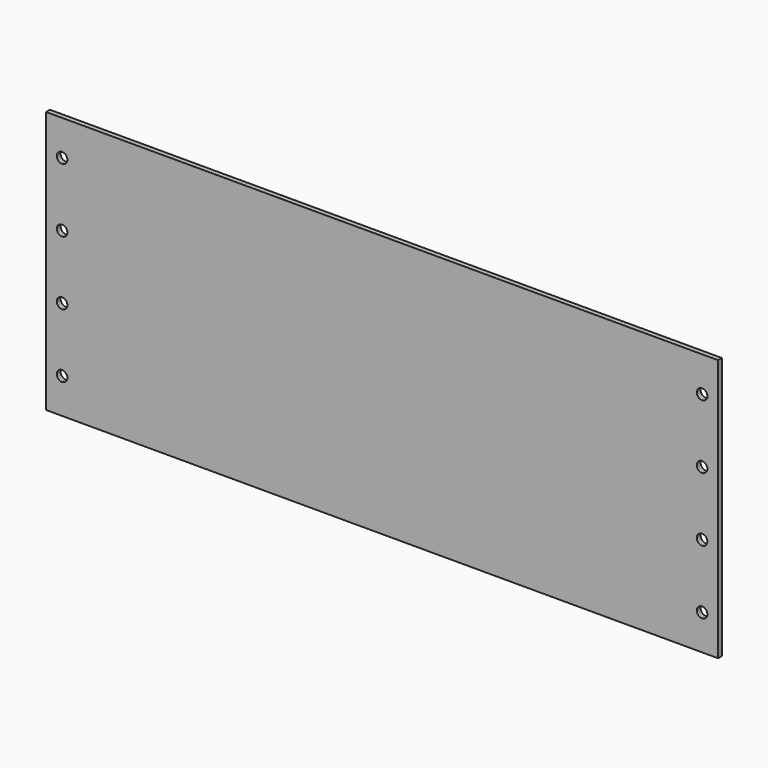
from build123d import *

# Parameters (mm, degrees)
SKETCH_W       = 210
SKETCH_H       = 82
SKETCH_R       = 1.65
PAD_DEPTH      = 0.75
PAD_DEPTH_BACK = 0.75


with BuildPart() as part:
    # Sketch → Pad (new body, two sides)
    with BuildSketch(Plane.XZ) as pad_sk:
        Rectangle(SKETCH_W, SKETCH_H)
        with Locations((100, 30)):
            Circle(SKETCH_R, mode=Mode.SUBTRACT)
        with Locations((100, 10)):
            Circle(SKETCH_R, mode=Mode.SUBTRACT)
        with Locations((100, -30)):
            Circle(SKETCH_R, mode=Mode.SUBTRACT)
        with Locations((100, -10)):
            Circle(SKETCH_R, mode=Mode.SUBTRACT)
        with Locations((-100, 30)):
            Circle(SKETCH_R, mode=Mode.SUBTRACT)
        with Locations((-100, 10)):
            Circle(SKETCH_R, mode=Mode.SUBTRACT)
        with Locations((-100, -30)):
            Circle(SKETCH_R, mode=Mode.SUBTRACT)
        with Locations((-100, -10)):
            Circle(SKETCH_R, mode=Mode.SUBTRACT)
    extrude(amount=PAD_DEPTH)
    extrude(pad_sk.sketch, amount=-PAD_DEPTH_BACK)


solid = part.part
